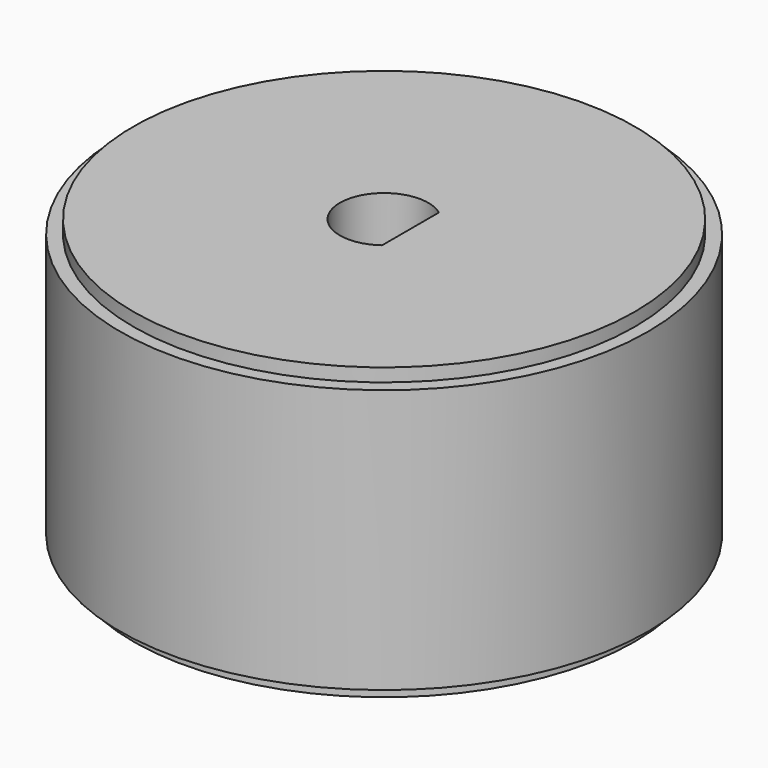
from build123d import *

# Parameters (mm, degrees)
BOX_W             = 5
BOX_H             = 6
BOX_DEPTH         = 8
CYLINDER001_R     = 1.675
CYLINDER001_DEPTH = 8


with BuildPart() as d:
    # Box → Box (new body)
    with BuildSketch(Plane(origin=(1, -3, 15), x_dir=(1, 0, 0), z_dir=(0, 0, 1))):
        with Locations((2.5, 3)):
            Rectangle(BOX_W, BOX_H)
    extrude(amount=BOX_DEPTH)


with BuildPart() as eje_d:
    # Cylinder001 → Cylinder001 (new body)
    with BuildSketch(Plane.XY.offset(15)):
        Circle(CYLINDER001_R)
    extrude(amount=CYLINDER001_DEPTH)

    # Cut: cut D
    add(d.part, mode=Mode.SUBTRACT)


with BuildPart() as eje_d_1:
    # Cut placement: moved
    add(eje_d.part.moved(Location((0, 0, -12))))


with BuildPart() as cut001:
    # Sketch → Revolution (revolve)
    with BuildSketch(Plane.XZ):
        Polygon((9.5, 11), (0, 11), (0, 0), (9.5, 0), (9.5, 0.5), (10, 0.5), (10, 10.5), (9.5, 10.5), align=None)
    revolve(axis=Axis((0, 0, 0), (0, 0, 1)))

    # Cut001: cut EJE + D
    add(eje_d_1.part, mode=Mode.SUBTRACT)


solid = cut001.part
